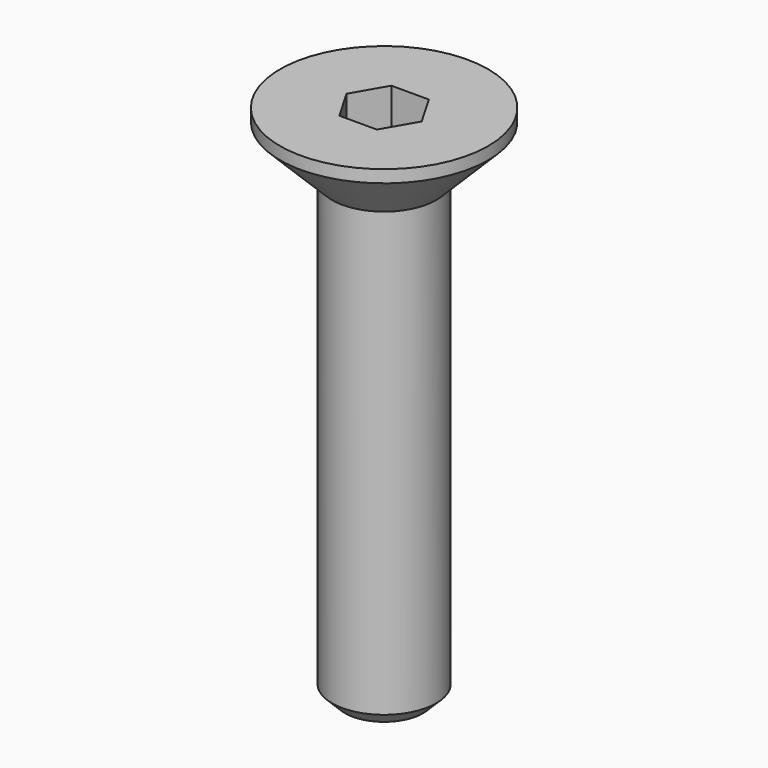
from build123d import *

# Parameters (mm, degrees)
F2_SIZE  = 0.5
F3_R     = 4.48
F3_R_2   = 4
F4_DEPTH = 1.49


with BuildPart() as f1:
    # F0 (on Front) → F1 (revolve)
    with BuildSketch(Plane.XZ):
        Polygon((4.48, 0), (0, 0), (0, -4.48), (2, -2.48), align=None)
        Polygon((2, -2.48), (0, -4.48), (0, -20), (2, -20), align=None)
    revolve(axis=Axis((0, 0, -10), (0, 0, -1)))

    # F2
    f2_edges = [f1.edges().sort_by_distance(p)[0] for p in [
        (-2, 0, -20),
    ]]
    chamfer(f2_edges, length=F2_SIZE)

    # F3 (on Top) → F4 (cut)
    with BuildSketch(Plane.XY):
        Circle(F3_R)
        Circle(F3_R_2, mode=Mode.SUBTRACT)
        Polygon((0.7216878365, 1.25), (-0.7216878365, 1.25), (-1.443375673, 0), (-0.7216878365, -1.25), (0.7216878365, -1.25), (1.443375673, 0), align=None)
    extrude(amount=-F4_DEPTH, mode=Mode.SUBTRACT)


solid = f1.part
